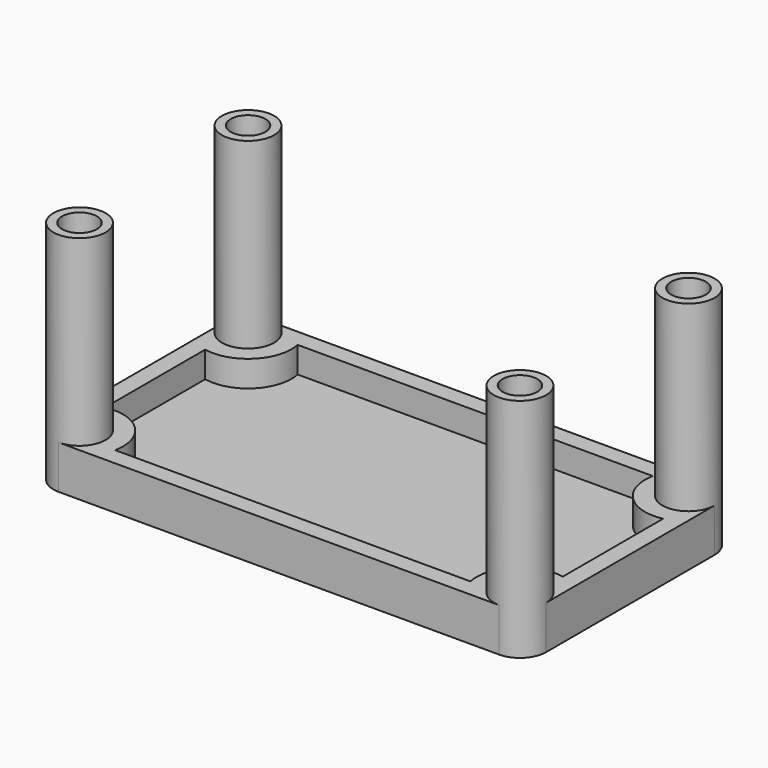
from build123d import *

# Parameters (mm, degrees)
F1_DEPTH = 25
F2_DEPTH = 130
F3_T     = -10
F4_T     = -5
F4_2_T   = -5
F4_3_T   = -5
F4_4_T   = -5


with BuildPart() as f1:
    # F0 (on Top) → F1 (new body)
    with BuildSketch(Plane.XY):
        with BuildLine():
            Line((268, 0), (15, 0))
            ThreePointArc((15, 0), (25.6066017178, -4.3933982822), (30, -15))
            ThreePointArc((30, -15), (15, -30), (0, -15))
            Line((0, -15), (0, -136))
            ThreePointArc((0, -136), (15, -121), (30, -136))
            ThreePointArc((30, -136), (25.6066017178, -146.6066017178), (15, -151))
            Line((15, -151), (268, -151))
            ThreePointArc((268, -151), (257.3933982822, -125.3933982822), (283, -136))
            Line((283, -136), (283, -15))
            ThreePointArc((283, -15), (257.3933982822, -25.6066017178), (268, 0))
        make_face()
    extrude(amount=F1_DEPTH)

    # F3
    f3_openings = [f1.faces().sort_by_distance(p)[0] for p in [
        (141.5, -75.5, 25),
    ]]
    offset(amount=F3_T, openings=f3_openings)


with BuildPart() as f2:
    # F0 (on Top) → F2 (new body)
    with BuildSketch(Plane.XY):
        with BuildLine():
            ThreePointArc((30, -15), (25.6066017178, -4.3933982822), (15, 0))
            ThreePointArc((15, 0), (4.3933982822, -4.3933982822), (0, -15))
            ThreePointArc((0, -15), (15, -30), (30, -15))
        make_face()
    extrude(amount=F2_DEPTH)

    # F4
    f4_openings = [f2.faces().sort_by_distance(p)[0] for p in [
        (15, -15, 130),
    ]]
    offset(amount=F4_T, openings=f4_openings)


with BuildPart() as f2b:
    # F0 (on Top) → F2, piece 2 (new body)
    with BuildSketch(Plane.XY):
        with BuildLine():
            ThreePointArc((30, -136), (15, -121), (0, -136))
            ThreePointArc((0, -136), (4.3933982822, -146.6066017178), (15, -151))
            ThreePointArc((15, -151), (25.6066017178, -146.6066017178), (30, -136))
        make_face()
    extrude(amount=F2_DEPTH)

    # F4#2
    f4_2_openings = [f2b.faces().sort_by_distance(p)[0] for p in [
        (15, -136, 130),
    ]]
    offset(amount=F4_2_T, openings=f4_2_openings)


with BuildPart() as f2c:
    # F0 (on Top) → F2, piece 3 (new body)
    with BuildSketch(Plane.XY):
        with BuildLine():
            ThreePointArc((268, -151), (278.6066017178, -146.6066017178), (283, -136))
            ThreePointArc((283, -136), (257.3933982822, -125.3933982822), (268, -151))
        make_face()
    extrude(amount=F2_DEPTH)

    # F4#3
    f4_3_openings = [f2c.faces().sort_by_distance(p)[0] for p in [
        (268, -136, 130),
    ]]
    offset(amount=F4_3_T, openings=f4_3_openings)


with BuildPart() as f2d:
    # F0 (on Top) → F2, piece 4 (new body)
    with BuildSketch(Plane.XY):
        with BuildLine():
            ThreePointArc((283, -15), (278.6066017178, -4.3933982822), (268, 0))
            ThreePointArc((268, 0), (257.3933982822, -25.6066017178), (283, -15))
        make_face()
    extrude(amount=F2_DEPTH)

    # F4#4
    f4_4_openings = [f2d.faces().sort_by_distance(p)[0] for p in [
        (268, -15, 130),
    ]]
    offset(amount=F4_4_T, openings=f4_4_openings)


solid = Compound([f1.part, f2.part, f2b.part, f2c.part, f2d.part])
